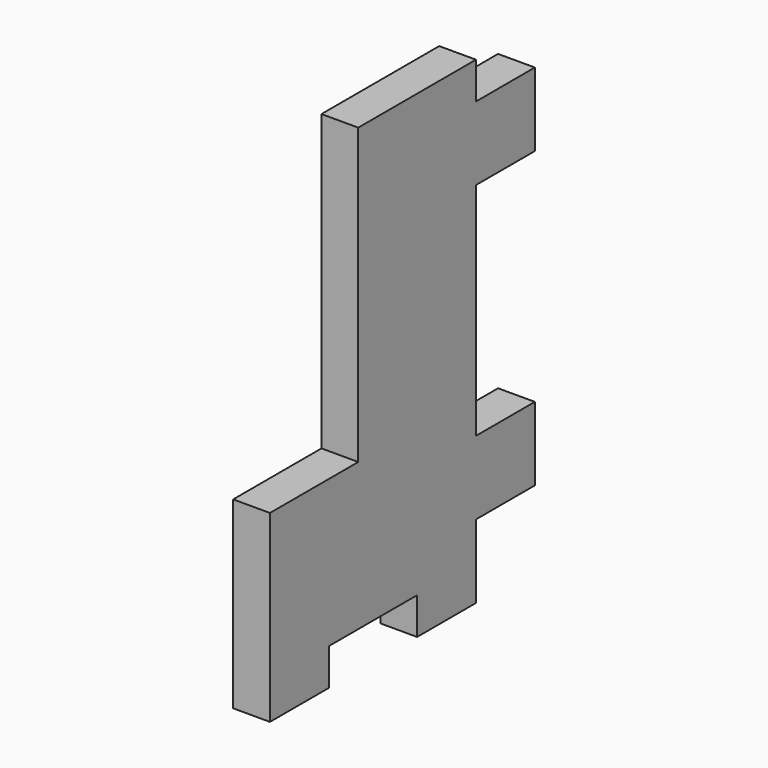
from build123d import *

# Parameters (mm, degrees)
F1_DEPTH = 6.35


with BuildPart() as f1:
    # F0 (on Right) → F1 (new body)
    with BuildSketch(Plane.YZ):
        Polygon((0, 25.4), (0, 0), (0, -6.35), (12.7, -6.35), (12.7, 0), (31.75, 0), (31.75, -6.35), (44.45, -6.35), (44.45, 6.35), (57.15, 6.35), (57.15, 19.05), (44.45, 19.05), (44.45, 57.15), (57.15, 57.15), (57.15, 69.85), (44.45, 69.85), (44.45, 76.2), (19.05, 76.2), (19.05, 25.4), align=None)
    extrude(amount=F1_DEPTH)


solid = f1.part
